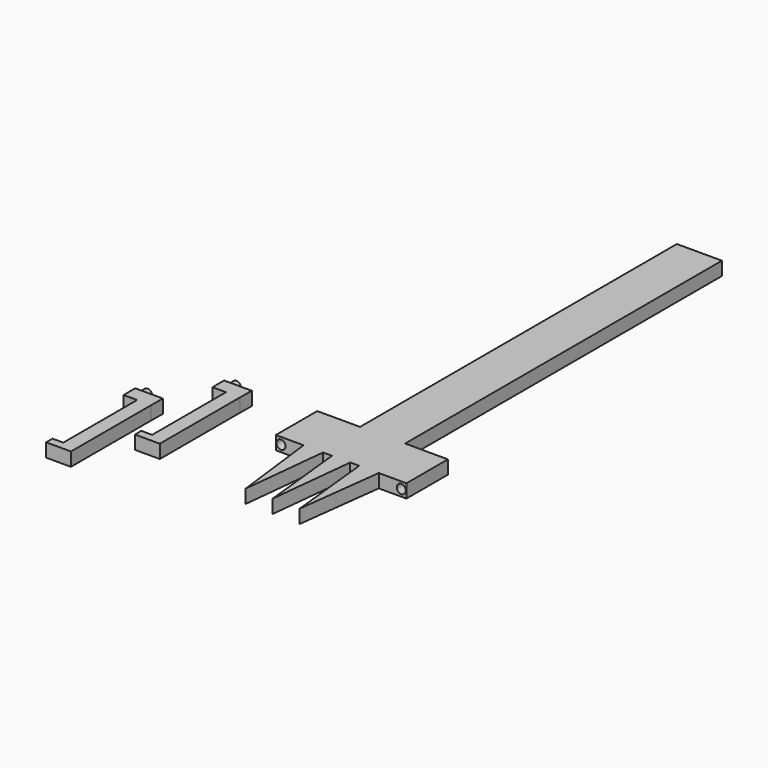
from build123d import *

# Parameters (mm, degrees)
F1_DEPTH  = 101.6
F2_W      = 223.268278
F2_H      = 93.98
F2_W_2    = 84.40165
F3_DEPTH  = 49.531
F4_W      = 84.40165
F4_H      = 93.98
F5_DEPTH  = 73.661
F7_DEPTH  = 7.621
F9_DEPTH  = 7.62
F10_R     = 2.54
F11_DEPTH = 5.08
F12_R     = 2.54
F13_DEPTH = 5.08
F14_R     = 2.54
F15_DEPTH = 5.08


with BuildPart() as f1:
    # F0 (on Top) → F1 (new body)
    with BuildSketch(Plane.XY):
        Polygon((20.779335, 57.15), (26.7446, 8.89), (31.812784, 57.15), (36.860802, 57.15), (41.994592, 8.89), (47.128382, 57.15), (52.1764, 57.15), (57.244584, 8.89), (63.209849, 57.15), (71.094898, 57.15), (71.094898, 6.35), (65.14, 6.35), (65.14, 1.95835), (78.824592, 1.95835), (78.824592, 57.15), (78.824592, 63.5), (78.824592, 86.36), (54.694592, 86.36), (54.694592, 309.628278), (29.294592, 309.628278), (29.294592, 86.36), (5.164592, 86.36), (5.164592, 63.5), (5.164592, 57.15), (5.164592, 1.95835), (18.849184, 1.95835), (18.849184, 6.35), (12.894286, 6.35), (12.894286, 57.15), align=None)
    extrude(amount=F1_DEPTH)

    # F2 (on face) → F3 (cut, through all)
    with BuildSketch(Plane.YZ.offset(54.694592)):
        with Locations((197.994139, 54.61)):
            Rectangle(F2_W, F2_H)
        with Locations((44.159175, 54.61)):
            Rectangle(F2_W_2, F2_H)
    extrude(amount=-F3_DEPTH, mode=Mode.SUBTRACT)

    # F4 (on face) → F5 (cut, through all)
    with BuildSketch(Plane.YZ.offset(78.824592)):
        with Locations((44.159175, 54.61)):
            Rectangle(F4_W, F4_H)
    extrude(amount=-F5_DEPTH, mode=Mode.SUBTRACT)

    # F6 (on face) → F7 (cut, through all)
    with BuildSketch(Plane.XY.offset(7.62)):
        Polygon((5.164592, 57.15), (5.164592, 1.95835), (18.849184, 1.95835), (18.849184, 6.35), (12.894286, 6.35), (12.894286, 57.15), align=None)
        Polygon((78.824592, 1.95835), (78.824592, 57.15), (71.094898, 57.15), (71.094898, 6.35), (65.14, 6.35), (65.14, 1.95835), align=None)
    extrude(amount=-F7_DEPTH, mode=Mode.SUBTRACT)

    # F14 (on face) → F15 (cut)
    with BuildSketch(Plane.XZ.offset(-57.15)):
        with Locations((8.085592, 3.81)):
            Circle(F14_R)
        with Locations((75.903592, 3.81)):
            Circle(F14_R)
    extrude(amount=-F15_DEPTH, mode=Mode.SUBTRACT)


with BuildPart() as f9:
    # F8 (on Top) → F9 (new body)
    with BuildSketch(Plane.XY):
        Polygon((-63.350664, -6.965021), (-69.450617, -6.965021), (-69.450617, -11.463647), (-55.432681, -11.463647), (-55.432681, 45.07242), (-55.35614, 53.271673), (-70.970664, 53.271673), (-70.970664, 45.07242), (-63.350664, 45.07242), align=None)
        Polygon((-37.438962, 23.261642), (-43.538916, 23.261642), (-43.538916, 18.763015), (-29.52098, 18.763015), (-29.52098, 75.299082), (-29.444438, 83.498336), (-45.058962, 83.498336), (-45.058962, 75.299082), (-37.438962, 75.299082), align=None)
    extrude(amount=F9_DEPTH)

    # F10 (on face) → F11 (join)
    with BuildSketch(Plane(origin=(0, 53.271673, 0), x_dir=(-1, 0, 0), z_dir=(0, 1, 0))):
        with Locations((68.049664, 3.81)):
            Circle(F10_R)
    extrude(amount=F11_DEPTH)

    # F12 (on face) → F13 (join)
    with BuildSketch(Plane(origin=(0, 83.498336, 0), x_dir=(-1, 0, 0), z_dir=(0, 1, 0))):
        with Locations((42.137962, 3.81)):
            Circle(F12_R)
    extrude(amount=F13_DEPTH)


solid = Compound([f1.part, f9.part])
